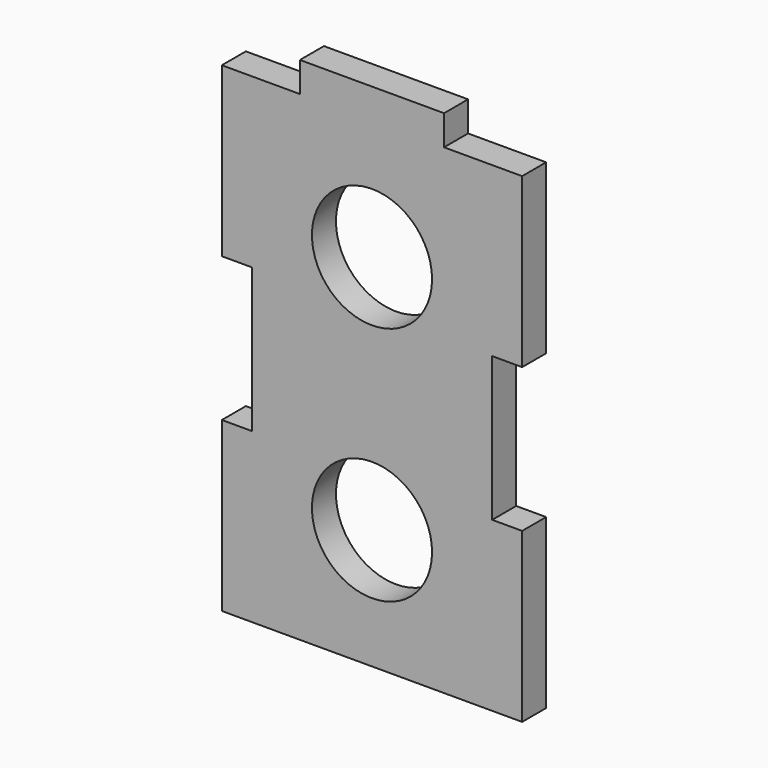
from build123d import *

# Parameters (mm, degrees)
F0_R     = 6.35
F1_DEPTH = 3.175


with BuildPart() as f1:
    # F0 (on Front) → F1 (new body)
    with BuildSketch(Plane.XZ):
        Polygon((-14.83485, -28.5242), (-11.65985, -28.5242), (13.74015, -28.5242), (16.91515, -28.5242), (16.91515, -10.7442), (13.747755, -10.7442), (13.747755, 4.4958), (16.91515, 4.4958), (16.91515, 22.2758), (8.66015, 22.2758), (8.66015, 25.4508), (-6.57985, 25.4508), (-6.57985, 22.2758), (-14.83485, 22.2758), (-14.83485, 4.4958), (-11.65985, 4.4958), (-11.65985, -10.7442), (-14.83485, -10.7442), align=None)
        with Locations((1.04015, -15.8242)):
            Circle(F0_R, mode=Mode.SUBTRACT)
        with Locations((1.04015, 9.5758)):
            Circle(F0_R, mode=Mode.SUBTRACT)
    extrude(amount=F1_DEPTH)


solid = f1.part
